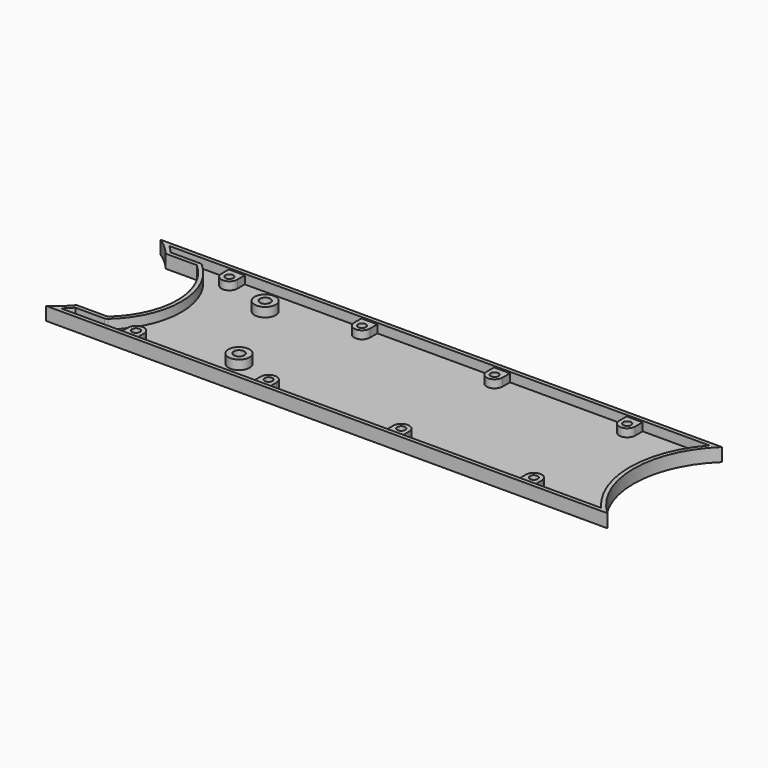
from build123d import *

# Parameters (mm, degrees)
PAD039_DEPTH           = 5
THICKNESS001_T         = -1.5
SKETCH099_R            = 1.5
POCKET045_DEPTH        = 5
SKETCH100_R            = 1.5
PAD040_DEPTH           = 3
LINEARPATTERN001_COUNT = 4
LINEARPATTERN001_PITCH = 50
SKETCH102_R            = 4
SKETCH102_R_2          = 2
PAD041_DEPTH           = 3.5


with BuildPart() as part:
    # Sketch098 → Pad039 (new body)
    with BuildSketch(Plane.XY):
        with BuildLine():
            Line((18.090053, -27), (229.701779, -27))
            ThreePointArc((229.701779, 27), (218, 0), (229.701779, -27))
            Line((229.701779, 27), (18.090053, 27))
            ThreePointArc((24.804234, 21), (21.655945, 24.233655), (18.090053, 27))
            Line((36.520259, 21), (24.804234, 21))
            ThreePointArc((36.520259, -21), (46, 0), (36.520259, 21))
            Line((36.520259, -21), (24.804234, -21))
            ThreePointArc((18.090053, -27), (21.655945, -24.233655), (24.804234, -21))
        make_face()
    extrude(amount=PAD039_DEPTH)

    # Thickness001
    thickness001_openings = [part.faces().sort_by_distance(p)[0] for p in [
        (129.781402, 0, 5),
    ]]
    offset(amount=THICKNESS001_T, openings=thickness001_openings)

    # Sketch099 (on Face9 of Pad039) → Pocket045 (cut)
    with BuildSketch(Plane(origin=(0, 0, 0), x_dir=(1, 0, 0), z_dir=(0, 0, -1))):
        with Locations((48, 22)):
            Circle(SKETCH099_R)
        with Locations((48, -22)):
            Circle(SKETCH099_R)
    pocket045 = extrude(amount=-POCKET045_DEPTH, mode=Mode.SUBTRACT)

    # Sketch100 (on Face23 of Pocket045) → Pad040 (join)
    with BuildSketch(Plane.XY.offset(1.5)):
        with BuildLine():
            ThreePointArc((45, 22), (48.000011, 19), (51, 22.000022))
            Line((51, 22.000022), (51, 25.5))
            Line((45, 25.5), (51, 25.5))
            Line((45, 25.5), (45, 22))
        make_face()
        with Locations((48, 22)):
            Circle(SKETCH100_R, mode=Mode.SUBTRACT)
        with BuildLine():
            ThreePointArc((51, -22), (48, -19), (45, -22))
            Line((45, -22), (45, -25.5))
            Line((45, -25.5), (51, -25.5))
            Line((51, -22), (51, -25.5))
        make_face()
        with Locations((48, -22)):
            Circle(SKETCH100_R, mode=Mode.SUBTRACT)
    pad040 = extrude(amount=PAD040_DEPTH)

    # LinearPattern001: Pocket045, Pad040 ×4
    with Locations(*[(i * LINEARPATTERN001_PITCH, 0, 0) for i in range(1, LINEARPATTERN001_COUNT)]):
        add(pocket045, mode=Mode.SUBTRACT)
        add(pad040)

    # Sketch102 (on Face25 of LinearPattern001) → Pad041 (join)
    with BuildSketch(Plane.XY.offset(1.5)):
        with Locations((66.39682, 15.867146)):
            Circle(SKETCH102_R)
        with Locations((66.39682, 15.867146)):
            Circle(SKETCH102_R_2, mode=Mode.SUBTRACT)
        with Locations((81.342545, -15.126509)):
            Circle(SKETCH102_R)
        with Locations((81.342545, -15.126509)):
            Circle(SKETCH102_R_2, mode=Mode.SUBTRACT)
    extrude(amount=PAD041_DEPTH)


with BuildPart() as part_1:
    # Body011 placement: moved
    add(part.part.moved(Location((5, 0, -20))))


solid = part_1.part
